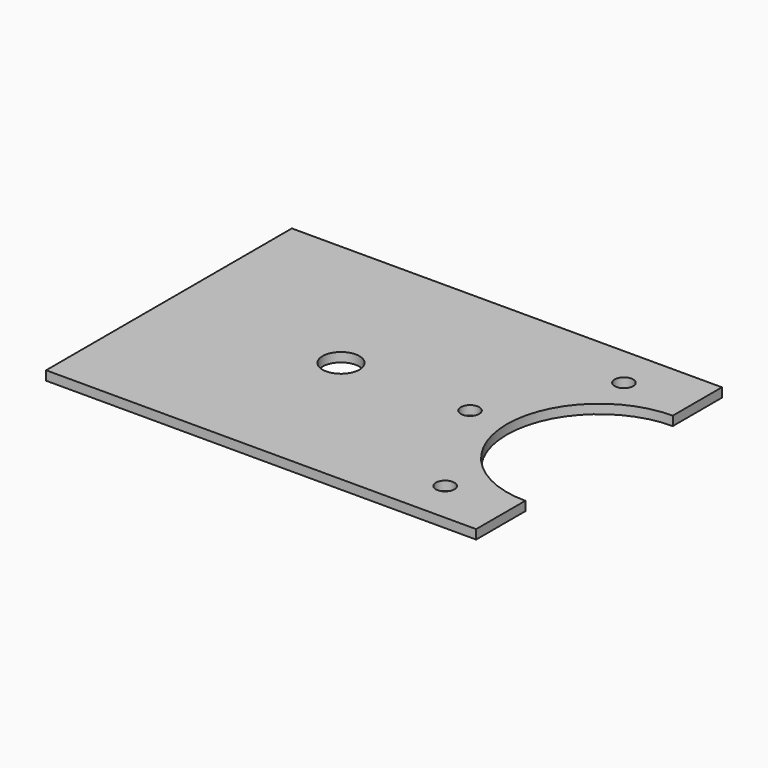
from build123d import *

# Parameters (mm, degrees)
SKETCH_R   = 3
SKETCH_R_2 = 1.5
PAD_DEPTH  = 1.5


with BuildPart() as part:
    # Sketch → Pad (new body)
    with BuildSketch(Plane.XY):
        with BuildLine():
            Line((70, 0), (0, 0))
            Line((0, 0), (0, 50))
            Line((0, 50), (70, 50))
            Line((70, 50), (70, 40))
            ThreePointArc((70, 40), (55, 25), (70, 10))
            Line((70, 0), (70, 10))
        make_face()
        with Locations((28, 25)):
            Circle(SKETCH_R, mode=Mode.SUBTRACT)
        with Locations((49, 25)):
            Circle(SKETCH_R_2, mode=Mode.SUBTRACT)
        with Locations((59.5, 43.19)):
            Circle(SKETCH_R_2, mode=Mode.SUBTRACT)
        with Locations((59.5, 6.81)):
            Circle(SKETCH_R_2, mode=Mode.SUBTRACT)
    extrude(amount=PAD_DEPTH)


solid = part.part
